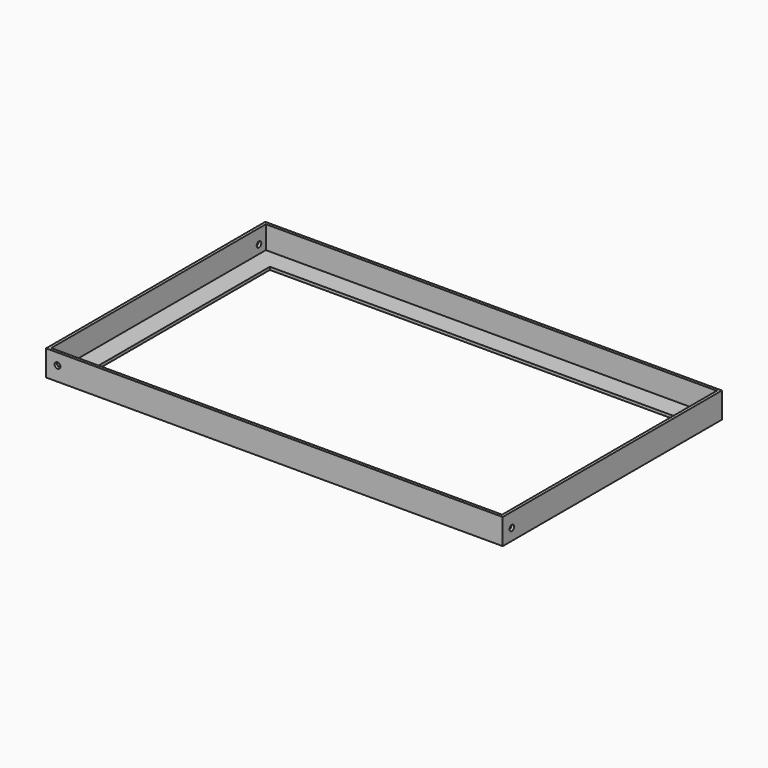
from build123d import *

# Parameters (mm, degrees)
F0_W      = 3.175
F0_H      = 254
F0_H_2    = 22.225
F0_H_3    = 3.175
F0_W_2    = 22.225
F0_W_3    = 457.2
F1_DEPTH  = 25.4
F2_W      = 508
F2_H      = 304.8
F2_W_2    = 501.65
F2_H_2    = 298.45
F2_W_3    = 457.2
F2_H_3    = 254
F3_DEPTH  = 3.175
F5_D      = 6.35
F5_DEPTH  = 12.7
F5_TIP    = 1.9077324654
F7_D      = 6.35
F7_DEPTH  = 12.7
F7_TIP    = 1.9077324654
F9_D      = 6.35
F9_DEPTH  = 12.7
F9_TIP    = 1.9077324654
F11_D     = 6.35
F11_DEPTH = 12.7
F11_TIP   = 1.9077324654


with BuildPart() as f1:
    # F0 (on Top) → F1 (new body)
    with BuildSketch(Plane.XY):
        with Locations((-257.3892009914, 11.9460101733)):
            Rectangle(F0_W, F0_H)
        with Locations((-257.3892009914, -126.1664898267)):
            Rectangle(F0_W, F0_H_2)
        with Locations((-257.3892009914, -138.8664898267)):
            Rectangle(F0_W, F0_H_3)
        with Locations((-244.6892009914, -138.8664898267)):
            Rectangle(F0_W_2, F0_H_3)
        with Locations((-4.9767009914, -138.8664898267)):
            Rectangle(F0_W_3, F0_H_3)
        with Locations((234.7357990086, -138.8664898267)):
            Rectangle(F0_W_2, F0_H_3)
        with Locations((247.4357990086, -138.8664898267)):
            Rectangle(F0_W, F0_H_3)
        with Locations((247.4357990086, -126.1664898267)):
            Rectangle(F0_W, F0_H_2)
        with Locations((247.4357990086, 11.9460101733)):
            Rectangle(F0_W, F0_H)
        with Locations((247.4357990086, 150.0585101733)):
            Rectangle(F0_W, F0_H_2)
        with Locations((247.4357990086, 162.7585101733)):
            Rectangle(F0_W, F0_H_3)
        with Locations((234.7357990086, 162.7585101733)):
            Rectangle(F0_W_2, F0_H_3)
        with Locations((-4.9767009914, 162.7585101733)):
            Rectangle(F0_W_3, F0_H_3)
        with Locations((-244.6892009914, 162.7585101733)):
            Rectangle(F0_W_2, F0_H_3)
        with Locations((-257.3892009914, 162.7585101733)):
            Rectangle(F0_W, F0_H_3)
        with Locations((-257.3892009914, 150.0585101733)):
            Rectangle(F0_W, F0_H_2)
    extrude(amount=F1_DEPTH)

    # F2 (on face) → F3 (join)
    with BuildSketch(Plane(origin=(0, 0, 0), x_dir=(1, 0, 0), z_dir=(0, 0, -1))):
        with Locations((-4.9767009914, -11.9460101733)):
            Rectangle(F2_W, F2_H)
        with Locations((-4.9767009914, -11.9460101733)):
            Rectangle(F2_W_2, F2_H_2, mode=Mode.SUBTRACT)
        with Locations((-4.9767009914, -11.9460101733)):
            Rectangle(F2_W_2, F2_H_2)
        with Locations((-4.9767009914, -11.9460101733)):
            Rectangle(F2_W_3, F2_H_3, mode=Mode.SUBTRACT)
    extrude(amount=F3_DEPTH)

    # F5
    with Locations(Plane.XZ.offset(140.4539898267)):
        with Locations((-246.2767009914, 12.7)):
            Hole(F5_D / 2, depth=F5_DEPTH)
            with Locations((0, 0, -(F5_DEPTH + F5_TIP / 2))):  # 118° drill point
                Cone(0, F5_D / 2, F5_TIP, mode=Mode.SUBTRACT)

    # F7
    with Locations(Plane.YZ.offset(249.0232990086)):
        with Locations((-127.7539898267, 9.525)):
            Hole(F7_D / 2, depth=F7_DEPTH)
            with Locations((0, 0, -(F7_DEPTH + F7_TIP / 2))):  # 118° drill point
                Cone(0, F7_D / 2, F7_TIP, mode=Mode.SUBTRACT)

    # F9
    with Locations(Plane(origin=(0, 164.3460101733, 0), x_dir=(-1, 0, 0), z_dir=(0, 1, 0))):
        with Locations((-236.3232990086, 12.7)):
            Hole(F9_D / 2, depth=F9_DEPTH)
            with Locations((0, 0, -(F9_DEPTH + F9_TIP / 2))):  # 118° drill point
                Cone(0, F9_D / 2, F9_TIP, mode=Mode.SUBTRACT)

    # F11
    with Locations(Plane(origin=(-258.9767009914, 0, 0), x_dir=(0, -1, 0), z_dir=(-1, 0, 0))):
        with Locations((-151.6460101733, 9.525)):
            Hole(F11_D / 2, depth=F11_DEPTH)
            with Locations((0, 0, -(F11_DEPTH + F11_TIP / 2))):  # 118° drill point
                Cone(0, F11_D / 2, F11_TIP, mode=Mode.SUBTRACT)


solid = f1.part
